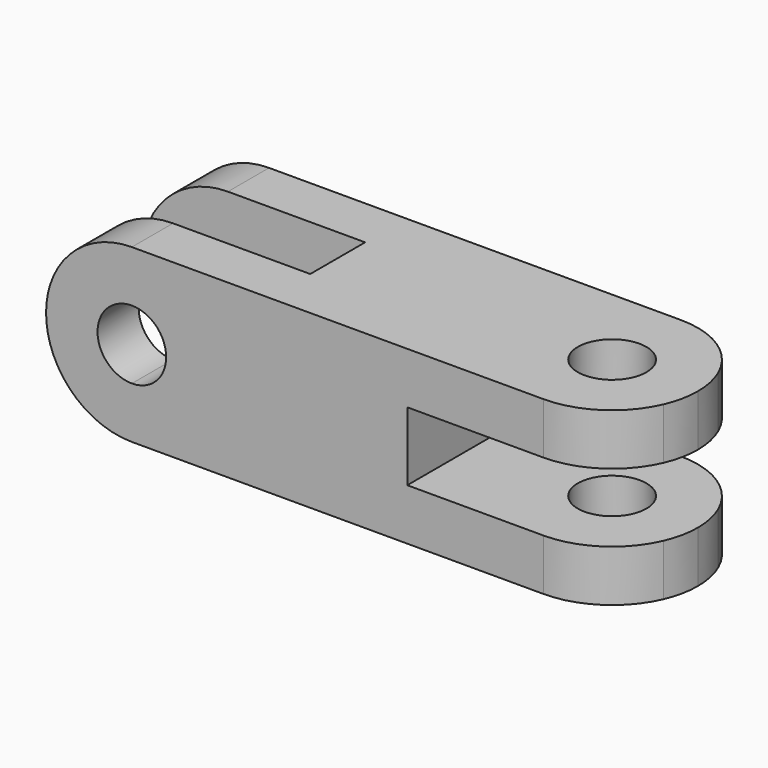
from build123d import *

# Parameters (mm, degrees)
F0_R     = 6.35
F1_DEPTH = 31.75
F0_W     = 41.275
F0_H     = 12.7
F3_DEPTH = 31.75
F2_W     = 41.275
F2_H     = 12.7
F4_DEPTH = 31.751
F5_DEPTH = 31.751


with BuildPart() as f1:
    # F0 (on Top) → F1 (new body)
    with BuildSketch(Plane.XY):
        with BuildLine():
            ThreePointArc((35.5833037704, -18.7424994532), (22.3013258492, -11.5625950536), (21.0336259389, 3.4825005468))
            Line((21.0336259389, 3.4825005468), (-15.2166962296, 3.4825005468))
            Line((-15.2166962296, 3.4825005468), (-15.2166962296, -9.2174994532))
            Line((-15.2166962296, -9.2174994532), (-56.4916962296, -9.2174994532))
            Line((-56.4916962296, -9.2174994532), (-56.4916962296, -18.7424994532))
            Line((-56.4916962296, -18.7424994532), (35.5833037704, -18.7424994532))
        make_face()
        with BuildLine():
            Line((35.5833037704, 13.0075005468), (-56.4916962296, 13.0075005468))
            Line((-56.4916962296, 13.0075005468), (-56.4916962296, 3.4825005468))
            Line((-56.4916962296, 3.4825005468), (-15.2166962296, 3.4825005468))
            Line((-15.2166962296, 3.4825005468), (21.0336259389, 3.4825005468))
            ThreePointArc((21.0336259389, 3.4825005468), (26.88820817, 10.414478468), (35.5833037704, 13.0075005468))
        make_face()
        with BuildLine():
            ThreePointArc((50.1329816019, 3.4825005468), (44.2783993708, 10.414478468), (35.5833037704, 13.0075005468))
            ThreePointArc((35.5833037704, 13.0075005468), (26.88820817, 10.414478468), (21.0336259389, 3.4825005468))
            ThreePointArc((21.0336259389, 3.4825005468), (22.3013258492, -11.5625950536), (35.5833037704, -18.7424994532))
            ThreePointArc((35.5833037704, -18.7424994532), (44.2783993708, -16.1494773745), (50.1329816019, -9.2174994532))
            ThreePointArc((50.1329816019, -9.2174994532), (51.1234414882, -6.1109150468), (51.4583037704, -2.8674994532))
            ThreePointArc((51.4583037704, -2.8674994532), (51.1234414882, 0.3759161403), (50.1329816019, 3.4825005468))
        make_face()
        with Locations((35.5833037704, -2.8674994532)):
            Circle(F0_R, mode=Mode.SUBTRACT)
        with BuildLine():
            ThreePointArc((50.1329816019, -9.2174994532), (44.2783993708, -16.1494773745), (35.5833037704, -18.7424994532))
            Line((35.5833037704, -18.7424994532), (51.6392476857, -18.7424994532))
            Line((51.6392476857, -18.7424994532), (51.4583037704, -9.2174994532))
            Line((51.4583037704, -9.2174994532), (50.1329816019, -9.2174994532))
        make_face()
        with BuildLine():
            Line((51.2197911739, 13.0075005468), (35.5833037704, 13.0075005468))
            ThreePointArc((35.5833037704, 13.0075005468), (44.2783993708, 10.414478468), (50.1329816019, 3.4825005468))
            Line((50.1329816019, 3.4825005468), (51.4583037704, 3.4825005468))
            Line((51.4583037704, 3.4825005468), (51.2197911739, 13.0075005468))
        make_face()
    extrude(amount=F1_DEPTH)

    # F0 (on Top) → F3 (cut)
    with BuildSketch(Plane.XY):
        with BuildLine():
            Line((35.5833037704, 13.0075005468), (-56.4916962296, 13.0075005468))
            Line((-56.4916962296, 13.0075005468), (-56.4916962296, 3.4825005468))
            Line((-56.4916962296, 3.4825005468), (-15.2166962296, 3.4825005468))
            Line((-15.2166962296, 3.4825005468), (21.0336259389, 3.4825005468))
            ThreePointArc((21.0336259389, 3.4825005468), (26.88820817, 10.414478468), (35.5833037704, 13.0075005468))
        make_face()
        with BuildLine():
            Line((51.2197911739, 13.0075005468), (35.5833037704, 13.0075005468))
            ThreePointArc((35.5833037704, 13.0075005468), (44.2783993708, 10.414478468), (50.1329816019, 3.4825005468))
            Line((50.1329816019, 3.4825005468), (51.4583037704, 3.4825005468))
            Line((51.4583037704, 3.4825005468), (51.2197911739, 13.0075005468))
        make_face()
        with BuildLine():
            ThreePointArc((50.1329816019, 3.4825005468), (44.2783993708, 10.414478468), (35.5833037704, 13.0075005468))
            ThreePointArc((35.5833037704, 13.0075005468), (26.88820817, 10.414478468), (21.0336259389, 3.4825005468))
            ThreePointArc((21.0336259389, 3.4825005468), (22.3013258492, -11.5625950536), (35.5833037704, -18.7424994532))
            ThreePointArc((35.5833037704, -18.7424994532), (44.2783993708, -16.1494773745), (50.1329816019, -9.2174994532))
            ThreePointArc((50.1329816019, -9.2174994532), (51.1234414882, -6.1109150468), (51.4583037704, -2.8674994532))
            ThreePointArc((51.4583037704, -2.8674994532), (51.1234414882, 0.3759161403), (50.1329816019, 3.4825005468))
        make_face()
        with Locations((35.5833037704, -2.8674994532)):
            Circle(F0_R, mode=Mode.SUBTRACT)
        with Locations((-35.8541962296, -2.8674994532)):
            Rectangle(F0_W, F0_H)
        with BuildLine():
            ThreePointArc((35.5833037704, -18.7424994532), (22.3013258492, -11.5625950536), (21.0336259389, 3.4825005468))
            Line((21.0336259389, 3.4825005468), (-15.2166962296, 3.4825005468))
            Line((-15.2166962296, 3.4825005468), (-15.2166962296, -9.2174994532))
            Line((-15.2166962296, -9.2174994532), (-56.4916962296, -9.2174994532))
            Line((-56.4916962296, -9.2174994532), (-56.4916962296, -18.7424994532))
            Line((-56.4916962296, -18.7424994532), (35.5833037704, -18.7424994532))
        make_face()
        with BuildLine():
            ThreePointArc((50.1329816019, -9.2174994532), (44.2783993708, -16.1494773745), (35.5833037704, -18.7424994532))
            Line((35.5833037704, -18.7424994532), (51.6392476857, -18.7424994532))
            Line((51.6392476857, -18.7424994532), (51.4583037704, -9.2174994532))
            Line((51.4583037704, -9.2174994532), (50.1329816019, -9.2174994532))
        make_face()
    extrude(amount=-F3_DEPTH, mode=Mode.SUBTRACT)

    # F2 (on face) → F4 (cut, through all)
    with BuildSketch(Plane.XZ.offset(18.7424994532)):
        with BuildLine():
            Line((-56.4916962296, 31.75), (-56.4916962296, 22.225))
            Line((-56.4916962296, 22.225), (-55.1663740611, 22.225))
            ThreePointArc((-55.1663740611, 22.225), (-49.31179183, 29.1569779212), (-40.6166962296, 31.75))
            Line((-40.6166962296, 31.75), (-56.4916962296, 31.75))
        make_face()
        with BuildLine():
            Line((-55.1663740611, 22.225), (-56.4916962296, 22.225))
            Line((-56.4916962296, 22.225), (-56.4916962296, 15.875))
            ThreePointArc((-56.4916962296, 15.875), (-56.1568339474, 19.1184155936), (-55.1663740611, 22.225))
        make_face()
        with BuildLine():
            ThreePointArc((-55.1663740611, 9.525), (-56.1568339474, 12.6315844064), (-56.4916962296, 15.875))
            Line((-56.4916962296, 15.875), (-56.4916962296, 9.525))
            Line((-56.4916962296, 9.525), (-55.1663740611, 9.525))
        make_face()
        with BuildLine():
            ThreePointArc((-40.6166962296, 0), (-49.31179183, 2.5930220788), (-55.1663740611, 9.525))
            Line((-55.1663740611, 9.525), (-56.4916962296, 9.525))
            Line((-56.4916962296, 9.525), (-56.4916962296, 0))
            Line((-56.4916962296, 0), (-40.6166962296, 0))
        make_face()
        with BuildLine():
            Line((-40.6166962296, 9.525), (-40.6166962296, 22.225))
            ThreePointArc((-40.6166962296, 22.225), (-46.9666962296, 15.875), (-40.6166962296, 9.525))
        make_face()
        with BuildLine():
            ThreePointArc((-34.2666962296, 15.875), (-36.126568169, 20.3651280605), (-40.6166962296, 22.225))
            Line((-40.6166962296, 22.225), (-40.6166962296, 9.525))
            ThreePointArc((-40.6166962296, 9.525), (-36.126568169, 11.3848719395), (-34.2666962296, 15.875))
        make_face()
        with Locations((31.0017476857, 15.875)):
            Rectangle(F2_W, F2_H)
    extrude(amount=-F4_DEPTH, mode=Mode.SUBTRACT)

    # F0 (on Top) → F5 (cut, through all)
    with BuildSketch(Plane.XY):
        with BuildLine():
            Line((51.2197911739, 13.0075005468), (35.5833037704, 13.0075005468))
            ThreePointArc((35.5833037704, 13.0075005468), (44.2783993708, 10.414478468), (50.1329816019, 3.4825005468))
            Line((50.1329816019, 3.4825005468), (51.4583037704, 3.4825005468))
            Line((51.4583037704, 3.4825005468), (51.2197911739, 13.0075005468))
        make_face()
        with BuildLine():
            ThreePointArc((50.1329816019, -9.2174994532), (44.2783993708, -16.1494773745), (35.5833037704, -18.7424994532))
            Line((35.5833037704, -18.7424994532), (51.6392476857, -18.7424994532))
            Line((51.6392476857, -18.7424994532), (51.4583037704, -9.2174994532))
            Line((51.4583037704, -9.2174994532), (50.1329816019, -9.2174994532))
        make_face()
    extrude(amount=F5_DEPTH, mode=Mode.SUBTRACT)


solid = f1.part
